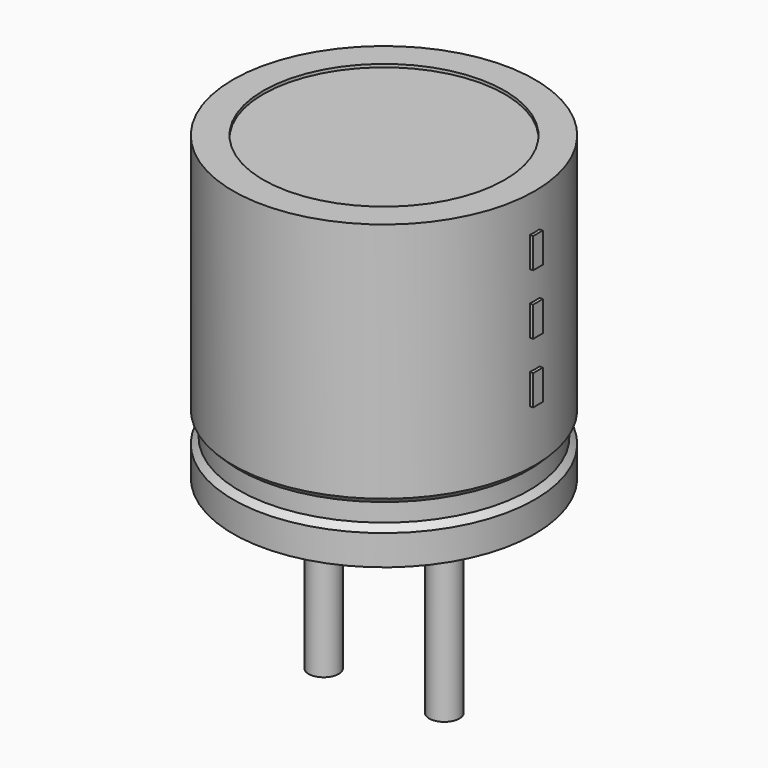
from build123d import *

# Parameters (mm, degrees)
SKETCH002_W  = 2.3
SKETCH002_H  = 4.9
SKETCH003_R  = 0.25
PAD_DEPTH    = 3.5
SKETCH004_W  = 0.2
SKETCH004_H  = 0.5
PAD001_DEPTH = 2.55


with BuildPart() as revolution:
    # Sketch → Revolution (revolve)
    with BuildSketch(Plane.XZ):
        Polygon((-1.5, 0.1), (-1.5, 0.6), (-1.4, 0.7), (-1.4, 1), (-1.5, 1.1), (-1.5, 5.1), (-1, 5.1), (-1, 0.1), align=None)
    revolve(axis=Axis((1, 0, 7.548619), (0, 0, -1)))


with BuildPart() as revolution001:
    # Sketch002 → Revolution001 (revolve)
    with BuildSketch(Plane.XZ):
        with Locations((-0.15, 2.6)):
            Rectangle(SKETCH002_W, SKETCH002_H)
    revolve(axis=Axis((1, 0, 4.680116), (0, 0, -1)))


with BuildPart() as pad:
    # Sketch003 → Pad (new body)
    with BuildSketch(Plane.XY.offset(0.5)):
        Circle(SKETCH003_R)
        with Locations((2, 0)):
            Circle(SKETCH003_R)
    extrude(amount=-PAD_DEPTH)


with BuildPart() as pad001:
    # Sketch004 → Pad001 (new body)
    with BuildSketch(Plane.YZ.offset(1)):
        with Locations((0, 2.25)):
            Rectangle(SKETCH004_W, SKETCH004_H)
        with Locations((0, 3.25)):
            Rectangle(SKETCH004_W, SKETCH004_H)
        with Locations((0, 4.25)):
            Rectangle(SKETCH004_W, SKETCH004_H)
    extrude(amount=PAD001_DEPTH)


solid = Compound([revolution.part, revolution001.part, pad.part, pad001.part])
